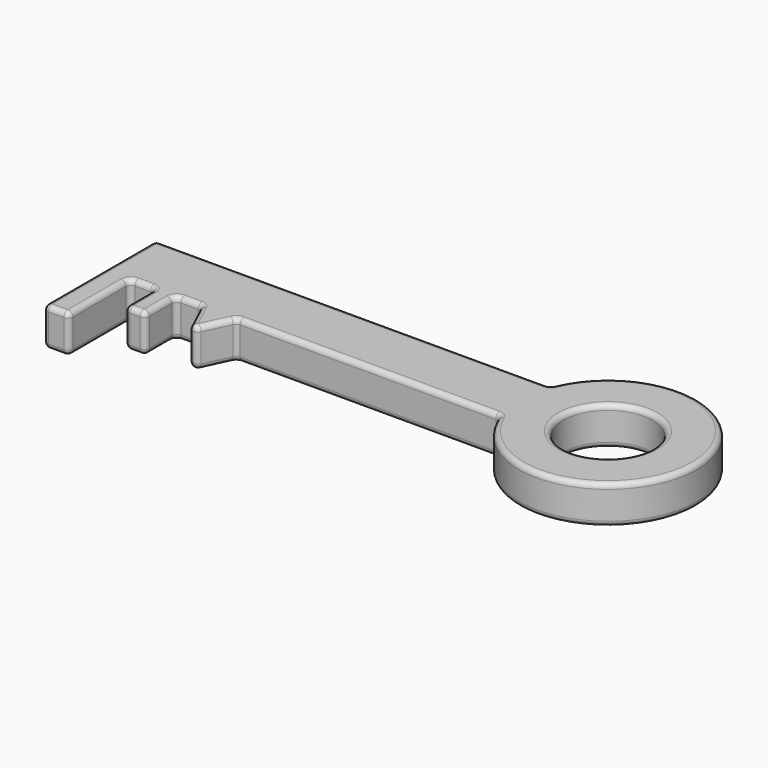
from build123d import *

# Parameters (mm, degrees)
F0_W     = 10
F0_H     = 30
F0_R     = 17.5
F0_W_2   = 8
F0_H_2   = 15
F1_DEPTH = 15
F2_R     = 2


with BuildPart() as f1:
    # F0 (on Top) → F1 (new body)
    with BuildSketch(Plane.XY):
        Polygon((35, -25.3500007093), (42, -10.3499404094), (28, -10.3499404094), align=None)
        with Locations((-5, -25.3499404094)):
            Rectangle(F0_W, F0_H)
        with BuildLine():
            Line((145, 14.6500595906), (-10, 14.6500595906))
            Line((-10, 14.6500595906), (-10, -10.3499404094))
            Line((-10, -10.3499404094), (0, -10.3499404094))
            Line((0, -10.3499404094), (10, -10.3499404094))
            Line((10, -10.3499404094), (18, -10.3499404094))
            Line((18, -10.3499404094), (28, -10.3499404094))
            Line((28, -10.3499404094), (42, -10.3499404094))
            Line((42, -10.3499404094), (145, -10.3499404094))
            ThreePointArc((145, -10.3499404094), (212.6917420766, 2.1500595906), (145, 14.6500595906))
        make_face()
        with Locations((177.6917420766, 2.1500595906)):
            Circle(F0_R, mode=Mode.SUBTRACT)
        with Locations((14, -17.8499404094)):
            Rectangle(F0_W_2, F0_H_2)
    extrude(amount=F1_DEPTH)

    # F2
    f2_edges = [f1.edges().sort_by_distance(p)[0] for p in [
        (38.5, -17.849971, 0),
        (160.191742, 2.15006, 0),
        (31.5, -17.849971, 0),
        (23, -10.34994, 0),
        (28, -10.34994, 7.5),
        (14, -25.34994, 0),
        (93.5, -10.34994, 0),
        (160.191742, 2.15006, 15),
        (42, -10.34994, 7.5),
        (0, -25.34994, 0),
        (18, -17.84994, 0),
        (35, -25.350001, 7.5),
        (10, -10.34994, 7.5),
        (0, -10.34994, 7.5),
        (38.5, -17.849971, 15),
        (145, -10.34994, 7.5),
        (67.5, 14.65006, 0),
        (18, -25.34994, 7.5),
        (10, -25.34994, 7.5),
        (18, -10.34994, 7.5),
        (5, -10.34994, 0),
        (10, -17.84994, 0),
        (0, -40.34994, 7.5),
        (-10, -12.84994, 0),
        (-5, -40.34994, 0),
        (31.5, -17.849971, 15),
        (145, 14.65006, 7.5),
        (-10, -12.84994, 15),
        (0, -25.34994, 15),
        (93.5, -10.34994, 15),
        (14, -25.34994, 15),
        (18, -17.84994, 15),
        (10, -17.84994, 15),
        (5, -10.34994, 15),
        (-10, -40.34994, 7.5),
        (23, -10.34994, 15),
        (-10, 14.65006, 7.5),
        (67.5, 14.65006, 15),
        (-5, -40.34994, 15),
        (212.691742, 2.15006, 0),
        (212.691742, 2.15006, 15),
    ]]
    fillet(f2_edges, radius=F2_R)


solid = f1.part
